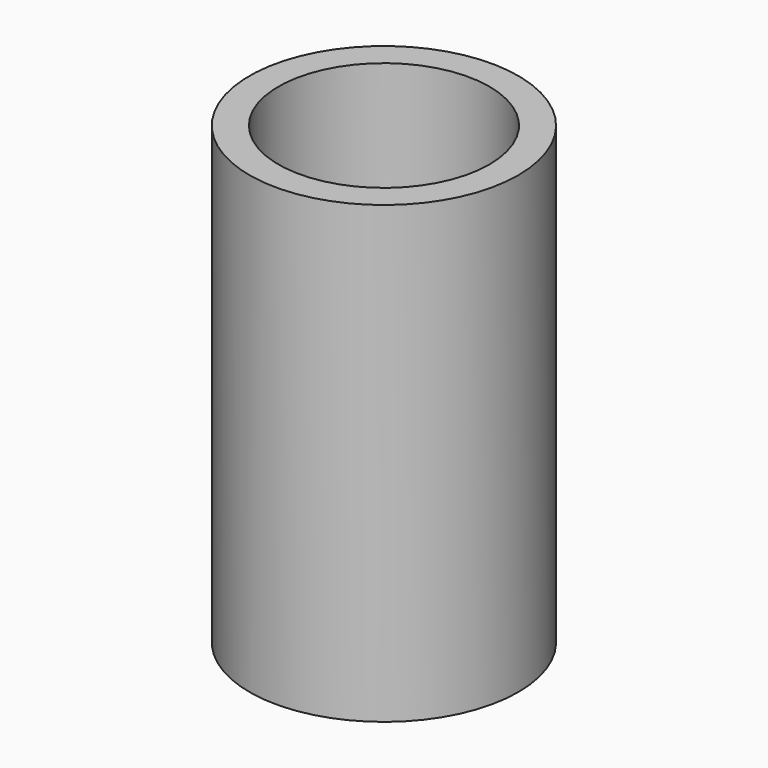
from build123d import *

# Parameters (mm, degrees)
F1_R     = 6.5
F2_DEPTH = 22
F3_START = 2
F0_R     = 5.1
F3_DEPTH = 20


with BuildPart() as f2:
    # F1 (on Top) → F2 (new body)
    with BuildSketch(Plane.XY):
        Circle(F1_R)
    extrude(amount=F2_DEPTH)

    # F0 (on Top) → F3 (cut)
    with BuildSketch(Plane.XY.offset(F3_START)):
        Circle(F0_R)
    extrude(amount=F3_DEPTH, mode=Mode.SUBTRACT)


solid = f2.part
